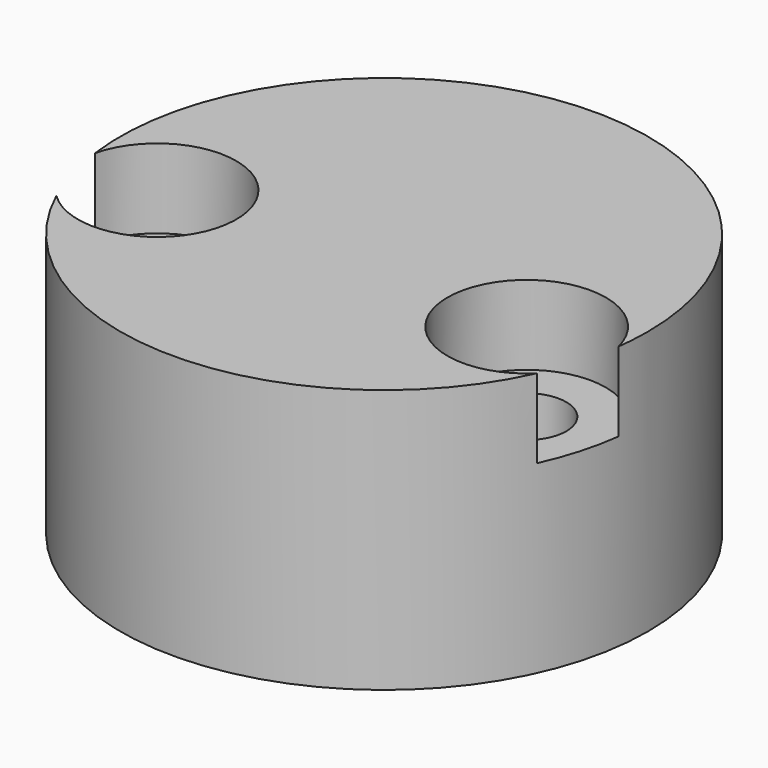
from build123d import *

# Parameters (mm, degrees)
CYLINDER427_R               = 3
CYLINDER427_DEPTH           = 4
CYLINDER426_R               = 3
CYLINDER426_DEPTH           = 4
CYLINDER424_R               = 3
CYLINDER424_DEPTH           = 4
CYLINDER425_R               = 3
CYLINDER425_DEPTH           = 4
COMPOUND320_PLACEMENT_ANGLE = 90
CYLINDER415_R               = 1.5
CYLINDER415_DEPTH           = 20
CYLINDER414_R               = 1.5
CYLINDER414_DEPTH           = 20
CYLINDER412_R               = 1.5
CYLINDER412_DEPTH           = 20
CYLINDER413_R               = 1.5
CYLINDER413_DEPTH           = 20
COMPOUND317_PLACEMENT_ANGLE = 90
CYLINDER284_R               = 10
CYLINDER284_DEPTH           = 10


with BuildPart() as obj1:
    # Cylinder427 → Cylinder427 (new body)
    with BuildSketch(Plane(origin=(-7, -34, 37), x_dir=(1, 0, 0), z_dir=(0, -1, 0))):
        Circle(CYLINDER427_R)
    extrude(amount=CYLINDER427_DEPTH)


with BuildPart() as obj2:
    # Cylinder426 → Cylinder426 (new body)
    with BuildSketch(Plane(origin=(7, -34, 73), x_dir=(1, 0, 0), z_dir=(0, -1, 0))):
        Circle(CYLINDER426_R)
    extrude(amount=CYLINDER426_DEPTH)


with BuildPart() as obj3:
    # Cylinder424 → Cylinder424 (new body)
    with BuildSketch(Plane(origin=(-7, -34, 73), x_dir=(1, 0, 0), z_dir=(0, -1, 0))):
        Circle(CYLINDER424_R)
    extrude(amount=CYLINDER424_DEPTH)


with BuildPart() as compound320:
    # Cylinder425 → Cylinder425 (new body)
    with BuildSketch(Plane(origin=(7, -34, 37), x_dir=(1, 0, 0), z_dir=(0, -1, 0))):
        Circle(CYLINDER425_R)
    extrude(amount=CYLINDER425_DEPTH)

    # Compound320: union obj1, obj2, obj3
    add(obj1.part)
    add(obj2.part)
    add(obj3.part)


with BuildPart() as compound320_1:
    # Compound320 placement: moved
    add(compound320.part.moved(Location((0, 141, 45))).rotate(Axis((0, 141, 45), (1, 0, 0)), COMPOUND320_PLACEMENT_ANGLE))


with BuildPart() as obj4:
    # Cylinder415 → Cylinder415 (new body)
    with BuildSketch(Plane(origin=(-7, -34, 37), x_dir=(1, 0, 0), z_dir=(0, -1, 0))):
        Circle(CYLINDER415_R)
    extrude(amount=CYLINDER415_DEPTH)


with BuildPart() as obj5:
    # Cylinder414 → Cylinder414 (new body)
    with BuildSketch(Plane(origin=(7, -34, 73), x_dir=(1, 0, 0), z_dir=(0, -1, 0))):
        Circle(CYLINDER414_R)
    extrude(amount=CYLINDER414_DEPTH)


with BuildPart() as obj6:
    # Cylinder412 → Cylinder412 (new body)
    with BuildSketch(Plane(origin=(-7, -34, 73), x_dir=(1, 0, 0), z_dir=(0, -1, 0))):
        Circle(CYLINDER412_R)
    extrude(amount=CYLINDER412_DEPTH)


with BuildPart() as compound317:
    # Cylinder413 → Cylinder413 (new body)
    with BuildSketch(Plane(origin=(7, -34, 37), x_dir=(1, 0, 0), z_dir=(0, -1, 0))):
        Circle(CYLINDER413_R)
    extrude(amount=CYLINDER413_DEPTH)

    # Compound317: union obj4, obj5, obj6
    add(obj4.part)
    add(obj5.part)
    add(obj6.part)


with BuildPart() as compound317_1:
    # Compound317 placement: moved
    add(compound317.part.moved(Location((0, 141, 45))).rotate(Axis((0, 141, 45), (1, 0, 0)), COMPOUND317_PLACEMENT_ANGLE))


with BuildPart() as cut168:
    # Cylinder284 → Cylinder284 (new body)
    with BuildSketch(Plane(origin=(0, 106, 0), x_dir=(1, 0, 0), z_dir=(0, 0, 1))):
        Circle(CYLINDER284_R)
    extrude(amount=CYLINDER284_DEPTH)

    # Cut166: cut Compound317
    add(compound317_1.part, mode=Mode.SUBTRACT)

    # Cut168: cut Compound320
    add(compound320_1.part, mode=Mode.SUBTRACT)


solid = cut168.part
